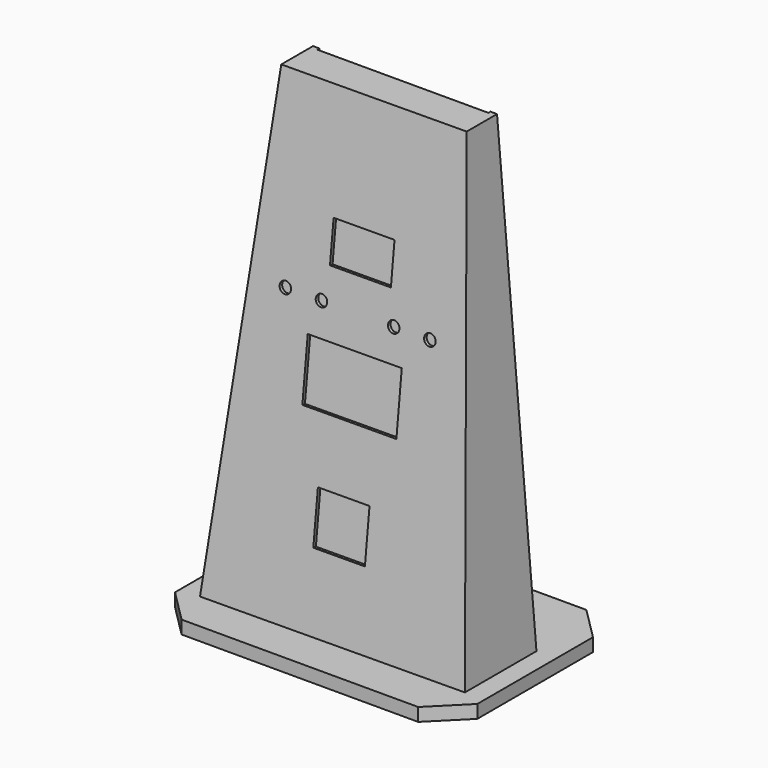
from build123d import *

# Parameters (mm, degrees)
F1_DEPTH      = 177.8
F3_DEPTH      = 506.1450977132
F5_DEPTH      = 152.4
F5_DEPTH_BACK = 254
F6_W          = 304.8
F6_H          = 825.5
F7_DEPTH      = 5.08
F9_DEPTH      = 25.4
F10_W         = 116.84
F10_H         = 77.978
F10_W_2       = 180.34
F10_H_2       = 116.078
F10_W_3       = 98.9624224542
F10_H_3       = 98.9624224542
F10_R         = 10.9982
F11_DEPTH     = 6.35


with BuildPart() as f1:
    # F0 (on Front) → F1 (new body)
    with BuildSketch(Plane.XZ):
        Polygon((-177.8, 889), (-254, 0), (254, 0), (177.8, 889), (0, 889), align=None)
        Polygon((-177.8, 889), (-254, 0), (254, 0), (177.8, 889), (0, 889), align=None)
    extrude(amount=-F1_DEPTH)

    # F2 (on face) → F3 (cut, through all)
    with BuildSketch(Plane(origin=(-252.1474878444, 0, 21.6126418152), x_dir=(0, -1, 0), z_dir=(-0.996346649, 0, 0.0854011413))):
        Polygon((-101.1122888841, 870.5678480667), (0, -21.691889902), (0, 870.5678480667), align=None)
        Polygon((-101.1122888841, 870.5678480667), (0, 870.5678480667), (0, 1635.8699123508), (-187.8375327953, 1635.8699123508), align=None)
    extrude(amount=-F3_DEPTH, mode=Mode.SUBTRACT)

    # F6 (on face) → F7 (cut)
    with BuildSketch(Plane(origin=(0, 177.8, 0), x_dir=(-1, 0, 0), z_dir=(0, 1, 0))):
        Polygon((-152.4, 889), (-165.1, 889), (-165.1, 50.8), (165.1, 50.8), (165.1, 889), (152.4, 889), (152.4, 63.5), (-152.4, 63.5), align=None)
        with Locations((0, 476.25)):
            Rectangle(F6_W, F6_H)
    extrude(amount=-F7_DEPTH, mode=Mode.SUBTRACT)

    # F10 (on face) → F11 (cut)
    with BuildSketch(Plane(origin=(-0.0234879302, 2.4269924652, -0.2740258526), x_dir=(0.9999537628, 0.0095555303, -0.0010788918), z_dir=(0.0096162449, -0.9936402964, 0.112189524))):
        with Locations((0.0416195213, 641.8154632217)):
            Rectangle(F10_W, F10_H)
        with Locations((0.0431962705, 422.6001270233)):
            Rectangle(F10_W_2, F10_H_2)
        with Locations((0.0450731424, 192.8925795978)):
            Rectangle(F10_W_3, F10_H_3)
        with Locations((69.3393310898, 541.7327951225)):
            Circle(F10_R)
        with Locations((138.6370426584, 541.7327951225)):
            Circle(F10_R)
        with Locations((-138.5538036159, 541.7327951225)):
            Circle(F10_R)
        with Locations((-69.2560920473, 541.7327951225)):
            Circle(F10_R)
    extrude(amount=-F11_DEPTH, mode=Mode.SUBTRACT)


with BuildPart() as f5:
    # F4 (on face) → F5 (new body, two sides)
    with BuildSketch(Plane(origin=(0, 177.8, 0), x_dir=(-1, 0, 0), z_dir=(0, 1, 0))) as f5_sk:
        Polygon((254, 0), (-254, 0), (-292.1, 0), (-292.1, -25.4), (292.1, -25.4), (292.1, 0), align=None)
    extrude(amount=F5_DEPTH)
    extrude(f5_sk.sketch, amount=-F5_DEPTH_BACK)

    # F8 (on face) → F9 (cut)
    with BuildSketch(Plane(origin=(0, 0, -25.4), x_dir=(1, 0, 0), z_dir=(0, 0, -1))):
        Polygon((-292.1, 12.7), (-228.6, 76.2), (-292.1, 76.2), align=None)
        Polygon((-228.6, -330.2), (-292.1, -266.7), (-292.1, -330.2), align=None)
        Polygon((292.1, 76.2), (228.6, 76.2), (292.1, 12.7), align=None)
        Polygon((292.1, -330.2), (292.1, -266.7), (228.6, -330.2), align=None)
    extrude(amount=-F9_DEPTH, mode=Mode.SUBTRACT)


solid = Compound([f1.part, f5.part])
